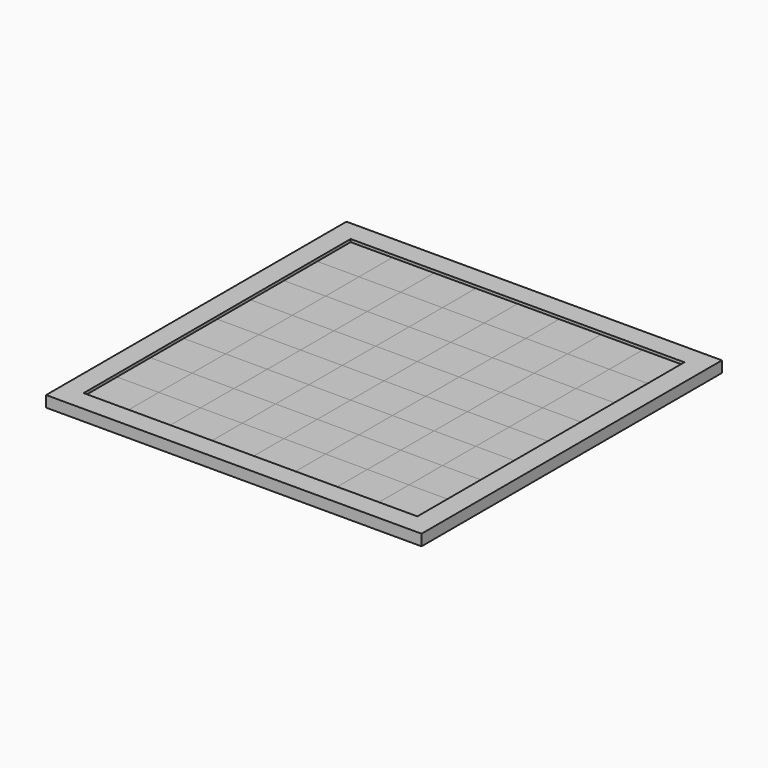
from build123d import *

# Parameters (mm, degrees)
F0_W     = 30
F0_H     = 30
F1_DEPTH = 3
F0_W_2   = 270
F0_H_2   = 270
F2_DEPTH = 8
F3_START = 3
F3_DEPTH = 3
F4_START = 3
F4_DEPTH = 3


with BuildPart() as f1:
    # F0 (on Top) → F1 (new body)
    with BuildSketch(Plane.XY):
        with Locations((-45, 45)):
            Rectangle(F0_W, F0_H)
        with Locations((105, 105)):
            Rectangle(F0_W, F0_H)
        with Locations((105, 45)):
            Rectangle(F0_W, F0_H)
        with Locations((75, -15)):
            Rectangle(F0_W, F0_H)
        with Locations((15, -105)):
            Rectangle(F0_W, F0_H)
        with Locations((45, 45)):
            Rectangle(F0_W, F0_H)
        with Locations((105, 75)):
            Rectangle(F0_W, F0_H)
        with Locations((-15, -45)):
            Rectangle(F0_W, F0_H)
        with Locations((105, -105)):
            Rectangle(F0_W, F0_H)
        with Locations((-105, 105)):
            Rectangle(F0_W, F0_H)
        with Locations((-15, -105)):
            Rectangle(F0_W, F0_H)
        with Locations((-105, 75)):
            Rectangle(F0_W, F0_H)
        with Locations((-105, -45)):
            Rectangle(F0_W, F0_H)
        with Locations((-105, -15)):
            Rectangle(F0_W, F0_H)
        with Locations((45, 75)):
            Rectangle(F0_W, F0_H)
        with Locations((105, -45)):
            Rectangle(F0_W, F0_H)
        with Locations((-15, 15)):
            Rectangle(F0_W, F0_H)
        with Locations((-105, -105)):
            Rectangle(F0_W, F0_H)
        with Locations((75, 105)):
            Rectangle(F0_W, F0_H)
        with Locations((75, 45)):
            Rectangle(F0_W, F0_H)
        with Locations((-75, -75)):
            Rectangle(F0_W, F0_H)
        with Locations((15, 15)):
            Rectangle(F0_W, F0_H)
        with Locations((-105, -75)):
            Rectangle(F0_W, F0_H)
        with Locations((-75, -105)):
            Rectangle(F0_W, F0_H)
        with Locations((105, -75)):
            Rectangle(F0_W, F0_H)
        with Locations((-15, -15)):
            Rectangle(F0_W, F0_H)
        with Locations((45, -105)):
            Rectangle(F0_W, F0_H)
        with Locations((-45, -105)):
            Rectangle(F0_W, F0_H)
        with Locations((15, -75)):
            Rectangle(F0_W, F0_H)
        with Locations((-75, -45)):
            Rectangle(F0_W, F0_H)
        with Locations((75, 15)):
            Rectangle(F0_W, F0_H)
        with Locations((-45, 75)):
            Rectangle(F0_W, F0_H)
        with Locations((-15, 45)):
            Rectangle(F0_W, F0_H)
        with Locations((15, -45)):
            Rectangle(F0_W, F0_H)
        with Locations((15, 105)):
            Rectangle(F0_W, F0_H)
        with Locations((45, 105)):
            Rectangle(F0_W, F0_H)
        with Locations((-15, 105)):
            Rectangle(F0_W, F0_H)
        with Locations((-45, 105)):
            Rectangle(F0_W, F0_H)
        with Locations((75, -105)):
            Rectangle(F0_W, F0_H)
        with Locations((-45, -75)):
            Rectangle(F0_W, F0_H)
        with Locations((-75, 105)):
            Rectangle(F0_W, F0_H)
        with Locations((45, -75)):
            Rectangle(F0_W, F0_H)
        with Locations((-45, -45)):
            Rectangle(F0_W, F0_H)
        with Locations((-75, -15)):
            Rectangle(F0_W, F0_H)
        with Locations((-15, 75)):
            Rectangle(F0_W, F0_H)
        with Locations((15, 45)):
            Rectangle(F0_W, F0_H)
        with Locations((-105, 45)):
            Rectangle(F0_W, F0_H)
        with Locations((15, -15)):
            Rectangle(F0_W, F0_H)
        with Locations((75, 75)):
            Rectangle(F0_W, F0_H)
        with Locations((-15, -75)):
            Rectangle(F0_W, F0_H)
        with Locations((45, 15)):
            Rectangle(F0_W, F0_H)
        with Locations((-75, 75)):
            Rectangle(F0_W, F0_H)
        with Locations((45, -45)):
            Rectangle(F0_W, F0_H)
        with Locations((-75, 15)):
            Rectangle(F0_W, F0_H)
        with Locations((105, 15)):
            Rectangle(F0_W, F0_H)
        with Locations((-105, 15)):
            Rectangle(F0_W, F0_H)
        with Locations((45, -15)):
            Rectangle(F0_W, F0_H)
        with Locations((-75, 45)):
            Rectangle(F0_W, F0_H)
        with Locations((75, -45)):
            Rectangle(F0_W, F0_H)
        with Locations((15, 75)):
            Rectangle(F0_W, F0_H)
        with Locations((-45, 15)):
            Rectangle(F0_W, F0_H)
        with Locations((105, -15)):
            Rectangle(F0_W, F0_H)
        with Locations((75, -75)):
            Rectangle(F0_W, F0_H)
        with Locations((-45, -15)):
            Rectangle(F0_W, F0_H)
    extrude(amount=F1_DEPTH)

    # F0 (on Top) → F2 (join)
    with BuildSketch(Plane.XY):
        Rectangle(F0_W_2, F0_H_2)
        Polygon((-120, 90), (-120, 120), (-90, 120), (-60, 120), (-30, 120), (0, 120), (30, 120), (60, 120), (90, 120), (120, 120), (120, 90), (120, 60), (120, 30), (120, 0), (120, -30), (120, -60), (120, -90), (120, -120), (90, -120), (60, -120), (30, -120), (0, -120), (-30, -120), (-60, -120), (-90, -120), (-120, -120), (-120, -90), (-120, -60), (-120, -30), (-120, 0), (-120, 30), (-120, 60), align=None, mode=Mode.SUBTRACT)
    extrude(amount=F2_DEPTH)


with BuildPart() as f3:
    # F0 (on Top) → F3 (new body)
    with BuildSketch(Plane.XY.offset(F3_START)):
        with Locations((-105, 105)):
            Rectangle(F0_W, F0_H)
    extrude(amount=F3_DEPTH)


with BuildPart() as f3b:
    # F0 (on Top) → F3, piece 2 (new body)
    with BuildSketch(Plane.XY.offset(F3_START)):
        with Locations((-75, 75)):
            Rectangle(F0_W, F0_H)
    extrude(amount=F3_DEPTH)


with BuildPart() as f3c:
    # F0 (on Top) → F3, piece 3 (new body)
    with BuildSketch(Plane.XY.offset(F3_START)):
        with Locations((-45, 105)):
            Rectangle(F0_W, F0_H)
    extrude(amount=F3_DEPTH)


with BuildPart() as f3d:
    # F0 (on Top) → F3, piece 4 (new body)
    with BuildSketch(Plane.XY.offset(F3_START)):
        with Locations((-15, 75)):
            Rectangle(F0_W, F0_H)
    extrude(amount=F3_DEPTH)


with BuildPart() as f3e:
    # F0 (on Top) → F3, piece 5 (new body)
    with BuildSketch(Plane.XY.offset(F3_START)):
        with Locations((15, 105)):
            Rectangle(F0_W, F0_H)
    extrude(amount=F3_DEPTH)


with BuildPart() as f3f:
    # F0 (on Top) → F3, piece 6 (new body)
    with BuildSketch(Plane.XY.offset(F3_START)):
        with Locations((45, 75)):
            Rectangle(F0_W, F0_H)
    extrude(amount=F3_DEPTH)


with BuildPart() as f3g:
    # F0 (on Top) → F3, piece 7 (new body)
    with BuildSketch(Plane.XY.offset(F3_START)):
        with Locations((75, 45)):
            Rectangle(F0_W, F0_H)
    extrude(amount=F3_DEPTH)


with BuildPart() as f3h:
    # F0 (on Top) → F3, piece 8 (new body)
    with BuildSketch(Plane.XY.offset(F3_START)):
        with Locations((105, 15)):
            Rectangle(F0_W, F0_H)
    extrude(amount=F3_DEPTH)


with BuildPart() as f3i:
    # F0 (on Top) → F3, piece 9 (new body)
    with BuildSketch(Plane.XY.offset(F3_START)):
        with Locations((105, 75)):
            Rectangle(F0_W, F0_H)
    extrude(amount=F3_DEPTH)


with BuildPart() as f3j:
    # F0 (on Top) → F3, piece 10 (new body)
    with BuildSketch(Plane.XY.offset(F3_START)):
        with Locations((75, 105)):
            Rectangle(F0_W, F0_H)
    extrude(amount=F3_DEPTH)


with BuildPart() as f3k:
    # F0 (on Top) → F3, piece 11 (new body)
    with BuildSketch(Plane.XY.offset(F3_START)):
        with Locations((75, -15)):
            Rectangle(F0_W, F0_H)
    extrude(amount=F3_DEPTH)


with BuildPart() as f3l:
    # F0 (on Top) → F3, piece 12 (new body)
    with BuildSketch(Plane.XY.offset(F3_START)):
        with Locations((45, 15)):
            Rectangle(F0_W, F0_H)
    extrude(amount=F3_DEPTH)


with BuildPart() as f3m:
    # F0 (on Top) → F3, piece 13 (new body)
    with BuildSketch(Plane.XY.offset(F3_START)):
        with Locations((15, 45)):
            Rectangle(F0_W, F0_H)
    extrude(amount=F3_DEPTH)


with BuildPart() as f3n:
    # F0 (on Top) → F3, piece 14 (new body)
    with BuildSketch(Plane.XY.offset(F3_START)):
        with Locations((-45, 45)):
            Rectangle(F0_W, F0_H)
    extrude(amount=F3_DEPTH)


with BuildPart() as f3o:
    # F0 (on Top) → F3, piece 15 (new body)
    with BuildSketch(Plane.XY.offset(F3_START)):
        with Locations((-105, 45)):
            Rectangle(F0_W, F0_H)
    extrude(amount=F3_DEPTH)


with BuildPart() as f3p:
    # F0 (on Top) → F3, piece 16 (new body)
    with BuildSketch(Plane.XY.offset(F3_START)):
        with Locations((-75, 15)):
            Rectangle(F0_W, F0_H)
    extrude(amount=F3_DEPTH)


with BuildPart() as f3q:
    # F0 (on Top) → F3, piece 17 (new body)
    with BuildSketch(Plane.XY.offset(F3_START)):
        with Locations((-45, -15)):
            Rectangle(F0_W, F0_H)
    extrude(amount=F3_DEPTH)


with BuildPart() as f3r:
    # F0 (on Top) → F3, piece 18 (new body)
    with BuildSketch(Plane.XY.offset(F3_START)):
        with Locations((-15, 15)):
            Rectangle(F0_W, F0_H)
    extrude(amount=F3_DEPTH)


with BuildPart() as f3s:
    # F0 (on Top) → F3, piece 19 (new body)
    with BuildSketch(Plane.XY.offset(F3_START)):
        with Locations((15, -15)):
            Rectangle(F0_W, F0_H)
    extrude(amount=F3_DEPTH)


with BuildPart() as f3t:
    # F0 (on Top) → F3, piece 20 (new body)
    with BuildSketch(Plane.XY.offset(F3_START)):
        with Locations((45, -45)):
            Rectangle(F0_W, F0_H)
    extrude(amount=F3_DEPTH)


with BuildPart() as f3u:
    # F0 (on Top) → F3, piece 21 (new body)
    with BuildSketch(Plane.XY.offset(F3_START)):
        with Locations((75, -75)):
            Rectangle(F0_W, F0_H)
    extrude(amount=F3_DEPTH)


with BuildPart() as f3v:
    # F0 (on Top) → F3, piece 22 (new body)
    with BuildSketch(Plane.XY.offset(F3_START)):
        with Locations((105, -105)):
            Rectangle(F0_W, F0_H)
    extrude(amount=F3_DEPTH)


with BuildPart() as f3w:
    # F0 (on Top) → F3, piece 23 (new body)
    with BuildSketch(Plane.XY.offset(F3_START)):
        with Locations((105, -45)):
            Rectangle(F0_W, F0_H)
    extrude(amount=F3_DEPTH)


with BuildPart() as f3x:
    # F0 (on Top) → F3, piece 24 (new body)
    with BuildSketch(Plane.XY.offset(F3_START)):
        with Locations((45, -105)):
            Rectangle(F0_W, F0_H)
    extrude(amount=F3_DEPTH)


with BuildPart() as f3y:
    # F0 (on Top) → F3, piece 25 (new body)
    with BuildSketch(Plane.XY.offset(F3_START)):
        with Locations((15, -75)):
            Rectangle(F0_W, F0_H)
    extrude(amount=F3_DEPTH)


with BuildPart() as f3z:
    # F0 (on Top) → F3, piece 26 (new body)
    with BuildSketch(Plane.XY.offset(F3_START)):
        with Locations((-15, -45)):
            Rectangle(F0_W, F0_H)
    extrude(amount=F3_DEPTH)


with BuildPart() as f3ba:
    # F0 (on Top) → F3, piece 27 (new body)
    with BuildSketch(Plane.XY.offset(F3_START)):
        with Locations((-45, -75)):
            Rectangle(F0_W, F0_H)
    extrude(amount=F3_DEPTH)


with BuildPart() as f3bb:
    # F0 (on Top) → F3, piece 28 (new body)
    with BuildSketch(Plane.XY.offset(F3_START)):
        with Locations((-75, -45)):
            Rectangle(F0_W, F0_H)
    extrude(amount=F3_DEPTH)


with BuildPart() as f3bc:
    # F0 (on Top) → F3, piece 29 (new body)
    with BuildSketch(Plane.XY.offset(F3_START)):
        with Locations((-105, -15)):
            Rectangle(F0_W, F0_H)
    extrude(amount=F3_DEPTH)


with BuildPart() as f3bd:
    # F0 (on Top) → F3, piece 30 (new body)
    with BuildSketch(Plane.XY.offset(F3_START)):
        with Locations((-15, -105)):
            Rectangle(F0_W, F0_H)
    extrude(amount=F3_DEPTH)


with BuildPart() as f3be:
    # F0 (on Top) → F3, piece 31 (new body)
    with BuildSketch(Plane.XY.offset(F3_START)):
        with Locations((-75, -105)):
            Rectangle(F0_W, F0_H)
    extrude(amount=F3_DEPTH)


with BuildPart() as f3bf:
    # F0 (on Top) → F3, piece 32 (new body)
    with BuildSketch(Plane.XY.offset(F3_START)):
        with Locations((-105, -75)):
            Rectangle(F0_W, F0_H)
    extrude(amount=F3_DEPTH)


with BuildPart() as f4:
    # F0 (on Top) → F4 (new body)
    with BuildSketch(Plane.XY.offset(F4_START)):
        with Locations((-75, 105)):
            Rectangle(F0_W, F0_H)
    extrude(amount=F4_DEPTH)


with BuildPart() as f4b:
    # F0 (on Top) → F4, piece 2 (new body)
    with BuildSketch(Plane.XY.offset(F4_START)):
        with Locations((-105, 75)):
            Rectangle(F0_W, F0_H)
    extrude(amount=F4_DEPTH)


with BuildPart() as f4c:
    # F0 (on Top) → F4, piece 3 (new body)
    with BuildSketch(Plane.XY.offset(F4_START)):
        with Locations((-75, 45)):
            Rectangle(F0_W, F0_H)
    extrude(amount=F4_DEPTH)


with BuildPart() as f4d:
    # F0 (on Top) → F4, piece 4 (new body)
    with BuildSketch(Plane.XY.offset(F4_START)):
        with Locations((-45, 75)):
            Rectangle(F0_W, F0_H)
    extrude(amount=F4_DEPTH)


with BuildPart() as f4e:
    # F0 (on Top) → F4, piece 5 (new body)
    with BuildSketch(Plane.XY.offset(F4_START)):
        with Locations((-15, 105)):
            Rectangle(F0_W, F0_H)
    extrude(amount=F4_DEPTH)


with BuildPart() as f4f:
    # F0 (on Top) → F4, piece 6 (new body)
    with BuildSketch(Plane.XY.offset(F4_START)):
        with Locations((15, 75)):
            Rectangle(F0_W, F0_H)
    extrude(amount=F4_DEPTH)


with BuildPart() as f4g:
    # F0 (on Top) → F4, piece 7 (new body)
    with BuildSketch(Plane.XY.offset(F4_START)):
        with Locations((45, 45)):
            Rectangle(F0_W, F0_H)
    extrude(amount=F4_DEPTH)


with BuildPart() as f4h:
    # F0 (on Top) → F4, piece 8 (new body)
    with BuildSketch(Plane.XY.offset(F4_START)):
        with Locations((75, 15)):
            Rectangle(F0_W, F0_H)
    extrude(amount=F4_DEPTH)


with BuildPart() as f4i:
    # F0 (on Top) → F4, piece 9 (new body)
    with BuildSketch(Plane.XY.offset(F4_START)):
        with Locations((105, -15)):
            Rectangle(F0_W, F0_H)
    extrude(amount=F4_DEPTH)


with BuildPart() as f4j:
    # F0 (on Top) → F4, piece 10 (new body)
    with BuildSketch(Plane.XY.offset(F4_START)):
        with Locations((75, -45)):
            Rectangle(F0_W, F0_H)
    extrude(amount=F4_DEPTH)


with BuildPart() as f4k:
    # F0 (on Top) → F4, piece 11 (new body)
    with BuildSketch(Plane.XY.offset(F4_START)):
        with Locations((105, -75)):
            Rectangle(F0_W, F0_H)
    extrude(amount=F4_DEPTH)


with BuildPart() as f4l:
    # F0 (on Top) → F4, piece 12 (new body)
    with BuildSketch(Plane.XY.offset(F4_START)):
        with Locations((45, -15)):
            Rectangle(F0_W, F0_H)
    extrude(amount=F4_DEPTH)


with BuildPart() as f4m:
    # F0 (on Top) → F4, piece 13 (new body)
    with BuildSketch(Plane.XY.offset(F4_START)):
        with Locations((15, 15)):
            Rectangle(F0_W, F0_H)
    extrude(amount=F4_DEPTH)


with BuildPart() as f4n:
    # F0 (on Top) → F4, piece 14 (new body)
    with BuildSketch(Plane.XY.offset(F4_START)):
        with Locations((-15, 45)):
            Rectangle(F0_W, F0_H)
    extrude(amount=F4_DEPTH)


with BuildPart() as f4o:
    # F0 (on Top) → F4, piece 15 (new body)
    with BuildSketch(Plane.XY.offset(F4_START)):
        with Locations((45, 105)):
            Rectangle(F0_W, F0_H)
    extrude(amount=F4_DEPTH)


with BuildPart() as f4p:
    # F0 (on Top) → F4, piece 16 (new body)
    with BuildSketch(Plane.XY.offset(F4_START)):
        with Locations((75, 75)):
            Rectangle(F0_W, F0_H)
    extrude(amount=F4_DEPTH)


with BuildPart() as f4q:
    # F0 (on Top) → F4, piece 17 (new body)
    with BuildSketch(Plane.XY.offset(F4_START)):
        with Locations((105, 45)):
            Rectangle(F0_W, F0_H)
    extrude(amount=F4_DEPTH)


with BuildPart() as f4r:
    # F0 (on Top) → F4, piece 18 (new body)
    with BuildSketch(Plane.XY.offset(F4_START)):
        with Locations((105, 105)):
            Rectangle(F0_W, F0_H)
    extrude(amount=F4_DEPTH)


with BuildPart() as f4s:
    # F0 (on Top) → F4, piece 19 (new body)
    with BuildSketch(Plane.XY.offset(F4_START)):
        with Locations((-15, -15)):
            Rectangle(F0_W, F0_H)
    extrude(amount=F4_DEPTH)


with BuildPart() as f4t:
    # F0 (on Top) → F4, piece 20 (new body)
    with BuildSketch(Plane.XY.offset(F4_START)):
        with Locations((-45, 15)):
            Rectangle(F0_W, F0_H)
    extrude(amount=F4_DEPTH)


with BuildPart() as f4u:
    # F0 (on Top) → F4, piece 21 (new body)
    with BuildSketch(Plane.XY.offset(F4_START)):
        with Locations((-105, 15)):
            Rectangle(F0_W, F0_H)
    extrude(amount=F4_DEPTH)


with BuildPart() as f4v:
    # F0 (on Top) → F4, piece 22 (new body)
    with BuildSketch(Plane.XY.offset(F4_START)):
        with Locations((-75, -15)):
            Rectangle(F0_W, F0_H)
    extrude(amount=F4_DEPTH)


with BuildPart() as f4w:
    # F0 (on Top) → F4, piece 23 (new body)
    with BuildSketch(Plane.XY.offset(F4_START)):
        with Locations((-45, -45)):
            Rectangle(F0_W, F0_H)
    extrude(amount=F4_DEPTH)


with BuildPart() as f4x:
    # F0 (on Top) → F4, piece 24 (new body)
    with BuildSketch(Plane.XY.offset(F4_START)):
        with Locations((-15, -75)):
            Rectangle(F0_W, F0_H)
    extrude(amount=F4_DEPTH)


with BuildPart() as f4y:
    # F0 (on Top) → F4, piece 25 (new body)
    with BuildSketch(Plane.XY.offset(F4_START)):
        with Locations((15, -105)):
            Rectangle(F0_W, F0_H)
    extrude(amount=F4_DEPTH)


with BuildPart() as f4z:
    # F0 (on Top) → F4, piece 26 (new body)
    with BuildSketch(Plane.XY.offset(F4_START)):
        with Locations((45, -75)):
            Rectangle(F0_W, F0_H)
    extrude(amount=F4_DEPTH)


with BuildPart() as f4ba:
    # F0 (on Top) → F4, piece 27 (new body)
    with BuildSketch(Plane.XY.offset(F4_START)):
        with Locations((15, -45)):
            Rectangle(F0_W, F0_H)
    extrude(amount=F4_DEPTH)


with BuildPart() as f4bb:
    # F0 (on Top) → F4, piece 28 (new body)
    with BuildSketch(Plane.XY.offset(F4_START)):
        with Locations((75, -105)):
            Rectangle(F0_W, F0_H)
    extrude(amount=F4_DEPTH)


with BuildPart() as f4bc:
    # F0 (on Top) → F4, piece 29 (new body)
    with BuildSketch(Plane.XY.offset(F4_START)):
        with Locations((-45, -105)):
            Rectangle(F0_W, F0_H)
    extrude(amount=F4_DEPTH)


with BuildPart() as f4bd:
    # F0 (on Top) → F4, piece 30 (new body)
    with BuildSketch(Plane.XY.offset(F4_START)):
        with Locations((-75, -75)):
            Rectangle(F0_W, F0_H)
    extrude(amount=F4_DEPTH)


with BuildPart() as f4be:
    # F0 (on Top) → F4, piece 31 (new body)
    with BuildSketch(Plane.XY.offset(F4_START)):
        with Locations((-105, -45)):
            Rectangle(F0_W, F0_H)
    extrude(amount=F4_DEPTH)


with BuildPart() as f4bf:
    # F0 (on Top) → F4, piece 32 (new body)
    with BuildSketch(Plane.XY.offset(F4_START)):
        with Locations((-105, -105)):
            Rectangle(F0_W, F0_H)
    extrude(amount=F4_DEPTH)


solid = Compound([f1.part, f3.part, f3b.part, f3c.part, f3d.part, f3e.part, f3f.part, f3g.part, f3h.part, f3i.part, f3j.part, f3k.part, f3l.part, f3m.part, f3n.part, f3o.part, f3p.part, f3q.part, f3r.part, f3s.part, f3t.part, f3u.part, f3v.part, f3w.part, f3x.part, f3y.part, f3z.part, f3ba.part, f3bb.part, f3bc.part, f3bd.part, f3be.part, f3bf.part, f4.part, f4b.part, f4c.part, f4d.part, f4e.part, f4f.part, f4g.part, f4h.part, f4i.part, f4j.part, f4k.part, f4l.part, f4m.part, f4n.part, f4o.part, f4p.part, f4q.part, f4r.part, f4s.part, f4t.part, f4u.part, f4v.part, f4w.part, f4x.part, f4y.part, f4z.part, f4ba.part, f4bb.part, f4bc.part, f4bd.part, f4be.part, f4bf.part])
